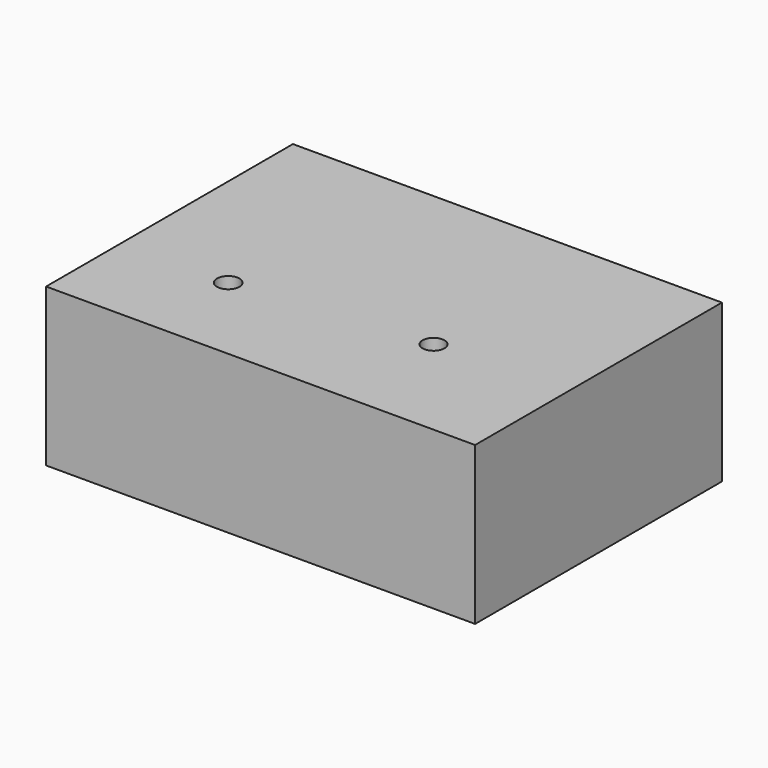
from build123d import *

# Parameters (mm, degrees)
F0_W     = 124.5182976127
F0_H     = 89.5412452519
F1_DEPTH = 45.72
F3_D     = 6.5278
F5_D     = 6.35


with BuildPart() as f1:
    # F0 (on Top) → F1 (new body)
    with BuildSketch(Plane.XY):
        with Locations((8.5693784058, 0.2623293549)):
            Rectangle(F0_W, F0_H)
    extrude(amount=F1_DEPTH)

    # F3 (through all)
    with Locations(Plane.XY.offset(45.72)):
        with Locations((-22.6416923106, -17.2483026981)):
            Hole(F3_D / 2)

    # F5 (through all)
    with Locations(Plane.XY.offset(45.72)):
        with Locations((32.5962975621, -11.8062160909)):
            Hole(F5_D / 2)


solid = f1.part
